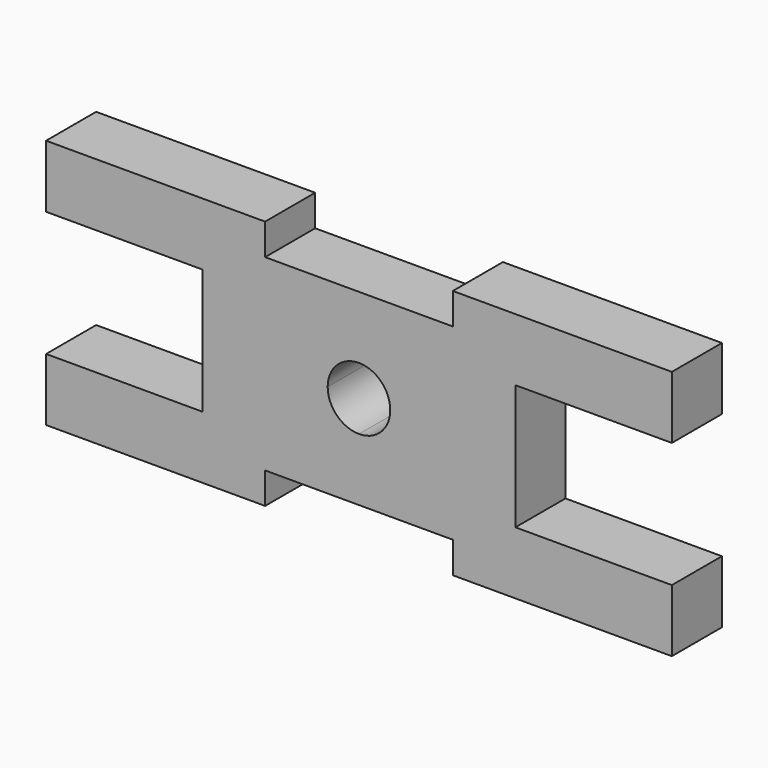
from build123d import *

# Parameters (mm, degrees)
F1_DEPTH = 10


with BuildPart() as f1:
    # F0 (on Front) → F1 (new body)
    with BuildSketch(Plane.XZ):
        Polygon((25, -10), (25, 0), (25, 10), (50, 10), (50, 20), (15, 20), (15, 15), (0, 15), (-15, 15), (-15, 20), (-50, 20), (-50, 10), (-25, 10), (-25, 0), (-25, -10), (-50, -10), (-50, -20), (-15, -20), (-15, -15), (0, -15), (15, -15), (15, -20), (50, -20), (50, -10), align=None)
        with BuildLine():
            ThreePointArc((-5, 0), (-3.535534, 3.535534), (0, 5))
            ThreePointArc((0, 5), (3.535534, 3.535534), (5, 0))
            ThreePointArc((5, 0), (3.535534, -3.535534), (0, -5))
            ThreePointArc((0, -5), (-3.535534, -3.535534), (-5, 0))
        make_face(mode=Mode.SUBTRACT)
    extrude(amount=F1_DEPTH)


solid = f1.part
